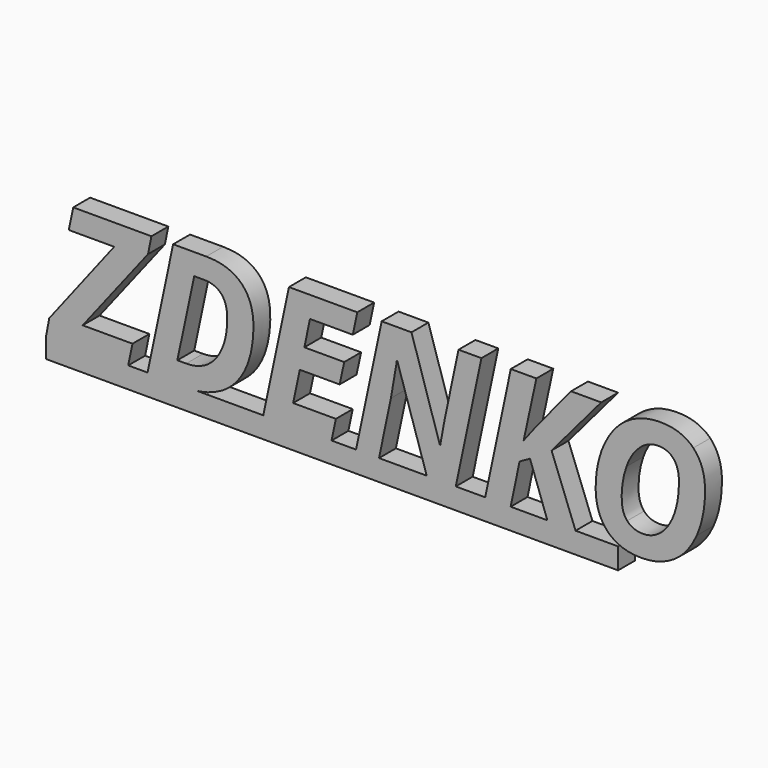
from build123d import *

# Parameters (mm, degrees)
F1_DEPTH = 3


with BuildPart() as f1:
    # F0 (on Front) → F1 (new body)
    with BuildSketch(Plane.XZ):
        Polygon((-45.4540743535, 0), (-45.4559984316, 0), (-45.4559984316, -0.0101539581), align=None)
        Polygon((-45.0253434094, 2.2625464951), (-45.4540743535, 0), (-33.8038387864, 0), (-33.1987708043, 2.9159902754), (-40.2764787269, 2.9159902754), (-30.9914984999, 14.8375401741), (-30.5052147564, 17.2347670658), (-41.6175581133, 17.2347670658), (-42.2482073431, 14.1954936691), (-35.8011486502, 14.1954936691), align=None)
        Polygon((-33.8038387864, 0), (-45.4540743535, 0), (-45.4559984316, -0.0101539581), (-45.4559984316, -0.1232831214), (-33.8294200341, -0.1232831214), align=None)
        Polygon((-45.4559984316, -0.1232831214), (-45.4559984316, -0.0101539581), (-45.4774353271, -0.1232831214), align=None)
        with BuildLine():
            Line((-31.0604376644, 0), (-33.8038387864, 0))
            Line((-33.8038387864, 0), (-33.8294200341, -0.1232831214))
            Line((-33.8294200341, -0.1232831214), (-45.4559984316, -0.1232831214))
            Line((-45.4559984316, -0.1232831214), (-45.4559984316, -3))
            Line((-45.4559984316, -3), (35.8146238138, -3))
            Line((35.8146238138, -3), (35.8146238138, 0))
            Line((35.8146238138, 0), (29.769646119, 0))
            Line((29.769646119, 0), (29.8167639856, -0.1232831214))
            Line((29.8167639856, -0.1232831214), (25.8011240102, -0.1232831214))
            Line((25.8011240102, -0.1232831214), (25.7572085631, 0))
            Line((25.7572085631, 0), (20.5460862143, 0))
            Line((20.5460862143, 0), (20.5203864833, -0.1232831214))
            Line((20.5203864833, -0.1232831214), (16.8998520494, -0.1232831214))
            Line((16.8998520494, -0.1232831214), (16.9258901786, 0))
            Line((16.9258901786, 0), (12.7469162406, 0))
            Line((12.7469162406, 0), (12.7208511289, -0.1232831214))
            Line((12.7208511289, -0.1232831214), (8.6596220525, -0.1232831214))
            Line((8.6596220525, -0.1232831214), (8.6199545667, 0))
            Line((8.6199545667, 0), (1.8358351015, 0))
            Line((1.8358351015, 0), (1.8098596346, -0.1232831214))
            Line((1.8098596346, -0.1232831214), (-1.4535601752, -0.1232831214))
            Line((-1.4535601752, -0.1232831214), (-1.4275220461, 0))
            Line((-1.4275220461, 0), (-4.9074846551, 0))
            Line((-4.9074846551, 0), (-4.9335282145, -0.1232831214))
            Line((-4.9335282145, -0.1232831214), (-14.6326094419, -0.1232831214))
            Line((-14.6326094419, -0.1232831214), (-14.6065713127, 0))
            Line((-14.6065713127, 0), (-23.9531483885, 0))
            add(Edge.make_bspline(
                [(-23.9531483885, 0), (-24.8052711696, -0.1232831214), (-25.7335555235, -0.1232831214)],
                knots=[0.6899190889, 0.6899190889, 0.6899190889, 1, 1, 1], degree=2))
            Line((-25.7335555235, -0.1232831214), (-31.0864757935, -0.1232831214))
            Line((-31.0864757935, -0.1232831214), (-31.0604376644, 0))
        make_face()
        with BuildLine():
            Line((-27.4203522587, 17.2347670658), (-31.0604376644, 0))
            Line((-31.0604376644, 0), (-23.9531483885, 0))
            add(Edge.make_bspline(
                [(-20.5382975609, 1.1589103429), (-22.0572052593, 0.2743005962), (-23.9531483885, 0)],
                knots=[0, 0, 0, 0.6899190889, 0.6899190889, 0.6899190889], degree=2))
            add(Edge.make_bspline(
                [(-17.1742018199, 4.8934175292), (-18.3367238942, 2.4411038072), (-20.5382975609, 1.1589103429)],
                knots=[0, 0, 0, 1, 1, 1], degree=2))
            add(Edge.make_bspline(
                [(-16.0116797456, 10.6699365289), (-16.0116797456, 7.3457312512), (-17.1742018199, 4.8934175292)],
                knots=[0, 0, 0, 1, 1, 1], degree=2))
            add(Edge.make_bspline(
                [(-17.7611614946, 15.5365730554), (-16.0116797456, 13.838379045), (-16.0116797456, 10.6699365289)],
                knots=[0, 0, 0, 1, 1, 1], degree=2))
            add(Edge.make_bspline(
                [(-22.7170766772, 17.2347670658), (-19.5106432436, 17.2347670658), (-17.7611614946, 15.5365730554)],
                knots=[0, 0, 0, 1, 1, 1], degree=2))
            Line((-22.7170766772, 17.2347670658), (-27.4203522587, 17.2347670658))
        make_face()
        with BuildLine():
            add(Edge.make_bspline(
                [(-25.5663954867, 2.9159902754), (-23.8112151, 2.9159902754), (-22.5043275394, 3.8182745651)],
                knots=[0, 0, 0, 1, 1, 1], degree=2))
            Line((-25.5663954867, 2.9159902754), (-26.8238948546, 2.9159902754))
            Line((-26.8238948546, 2.9159902754), (-24.4266679629, 14.2182882196))
            Line((-24.4266679629, 14.2182882196), (-23.0627940261, 14.2182882196))
            add(Edge.make_bspline(
                [(-20.5876857536, 13.2628166455), (-21.4481800341, 14.2182882196), (-23.0627940261, 14.2182882196)],
                knots=[0, 0, 0, 1, 1, 1], degree=2))
            add(Edge.make_bspline(
                [(-19.7271914732, 10.4799819416), (-19.7271914732, 12.3073450714), (-20.5876857536, 13.2628166455)],
                knots=[0, 0, 0, 1, 1, 1], degree=2))
            add(Edge.make_bspline(
                [(-20.462315726, 6.4719401496), (-19.7271914732, 8.2233214445), (-19.7271914732, 10.4799819416)],
                knots=[0, 0, 0, 1, 1, 1], degree=2))
            add(Edge.make_bspline(
                [(-22.5043275394, 3.8182745651), (-21.1974399788, 4.7205588547), (-20.462315726, 6.4719401496)],
                knots=[0, 0, 0, 1, 1, 1], degree=2))
        make_face(mode=Mode.SUBTRACT)
        with BuildLine():
            Line((-23.9531483885, 0), (-31.0604376644, 0))
            Line((-31.0604376644, 0), (-31.0864757935, -0.1232831214))
            Line((-31.0864757935, -0.1232831214), (-25.7335555235, -0.1232831214))
            add(Edge.make_bspline(
                [(-23.9531483885, 0), (-24.8052711696, -0.1232831214), (-25.7335555235, -0.1232831214)],
                knots=[0.6899190889, 0.6899190889, 0.6899190889, 1, 1, 1], degree=2))
        make_face()
        Polygon((-10.966485907, 17.2347670658), (-14.6065713127, 0), (-4.9074846551, 0), (-4.2914817094, 2.9159902754), (-10.3700285029, 2.9159902754), (-9.4202555664, 7.3913203521), (-3.759608865, 7.3913203521), (-3.1061650847, 10.4077991984), (-8.7706108779, 10.4077991984), (-7.9728016112, 14.2182882196), (-1.8942548177, 14.2182882196), (-1.2522083127, 17.2347670658), align=None)
        Polygon((-4.9074846551, 0), (-14.6065713127, 0), (-14.6326094419, -0.1232831214), (-4.9335282145, -0.1232831214), align=None)
        Polygon((29.8167639856, -0.1232831214), (29.769646119, 0), (25.7572085631, 0), (25.8011240102, -0.1232831214), align=None)
        Polygon((25.7572085631, 0), (29.769646119, 0), (26.3595904968, 8.9223543257), (33.414503869, 17.2347670658), (29.1253292878, 17.2347670658), (24.2700900365, 11.3347775844), (22.3971378058, 8.8995597752), (24.2017063851, 17.2347670658), (20.5659755843, 17.2347670658), (16.9258901786, 0), (20.5460862143, 0), (21.8120776769, 6.0730355163), (23.2975225496, 6.9050366086), align=None)
        with BuildLine():
            Line((2.2125633596, 17.2347670658), (-1.4275220461, 0))
            Line((-1.4275220461, 0), (1.8358351015, 0))
            Line((1.8358351015, 0), (3.5308481955, 8.0447641324))
            add(Edge.make_bspline(
                [(4.3134610951, 12.626468778), (3.9335519205, 10.0620818495), (3.5308481955, 8.0447641324)],
                knots=[0, 0, 0, 1, 1, 1], degree=2))
            Line((4.3134610951, 12.626468778), (4.3628492878, 13.0063779526))
            Line((4.3628492878, 13.0063779526), (4.435032031, 13.0063779526))
            Line((4.435032031, 13.0063779526), (8.6199545667, 0))
            Line((8.6199545667, 0), (12.7469162406, 0))
            Line((12.7469162406, 0), (16.3907737555, 17.2347670658))
            Line((16.3907737555, 17.2347670658), (13.1349521292, 17.2347670658))
            add(Edge.make_bspline(
                [(10.9979630221, 7.0247079986), (11.3189862746, 8.6982079127), (13.1349521292, 17.2347670658)],
                knots=[0, 0, 0, 1, 1, 1], degree=2))
            add(Edge.make_bspline(
                [(10.536373375, 4.447024249), (10.6769397696, 5.3512080845), (10.9979630221, 7.0247079986)],
                knots=[0, 0, 0, 1, 1, 1], degree=2))
            Line((10.536373375, 4.447024249), (10.4869851823, 4.447024249))
            Line((10.4869851823, 4.447024249), (6.4523497481, 17.2347670658))
            Line((6.4523497481, 17.2347670658), (2.2125633596, 17.2347670658))
        make_face()
        Polygon((1.8358351015, 0), (-1.4275220461, 0), (-1.4535601752, -0.1232831214), (1.8098596346, -0.1232831214), align=None)
        Polygon((20.5203864833, -0.1232831214), (20.5460862143, 0), (16.9258901786, 0), (16.8998520494, -0.1232831214), align=None)
        Polygon((12.7469162406, 0), (8.6199545667, 0), (8.6596220525, -0.1232831214), (12.7208511289, -0.1232831214), align=None)
        with BuildLine():
            add(Edge.make_bspline(
                [(48.1701762102, 11.011854786), (48.1701762102, 7.6534576826), (46.9943573149, 4.999792098)],
                knots=[0, 0, 0, 1, 1, 1], degree=2))
            add(Edge.make_bspline(
                [(46.5080735714, 15.7987103859), (48.1701762102, 14.0891191002), (48.1701762102, 11.011854786)],
                knots=[0, 0, 0, 1, 1, 1], degree=2))
            add(Edge.make_bspline(
                [(41.818094811, 17.5083016715), (44.8459709325, 17.5083016715), (46.5080735714, 15.7987103859)],
                knots=[0, 0, 0, 1, 1, 1], degree=2))
            add(Edge.make_bspline(
                [(37.0464355781, 16.0950395421), (39.1131414879, 17.5083016715), (41.818094811, 17.5083016715)],
                knots=[0, 0, 0, 1, 1, 1], degree=2))
            add(Edge.make_bspline(
                [(33.803910773, 12.0395091033), (34.9797296683, 14.6817774126), (37.0464355781, 16.0950395421)],
                knots=[0, 0, 0, 1, 1, 1], degree=2))
            add(Edge.make_bspline(
                [(32.6280918776, 6.2515928283), (32.6280918776, 9.397240794), (33.803910773, 12.0395091033)],
                knots=[0, 0, 0, 1, 1, 1], degree=2))
            add(Edge.make_bspline(
                [(34.3319845257, 1.3887553935), (32.6280918776, 3.1401366884), (32.6280918776, 6.2515928283)],
                knots=[0, 0, 0, 1, 1, 1], degree=2))
            add(Edge.make_bspline(
                [(39.0751505705, -0.3626259014), (36.0358771737, -0.3626259014), (34.3319845257, 1.3887553935)],
                knots=[0, 0, 0, 1, 1, 1], degree=2))
            add(Edge.make_bspline(
                [(43.7765266061, 0.9917503061), (41.7345147926, -0.3626259014), (39.0751505705, -0.3626259014)],
                knots=[0, 0, 0, 1, 1, 1], degree=2))
            add(Edge.make_bspline(
                [(46.9943573149, 4.999792098), (45.8185384195, 2.3461265135), (43.7765266061, 0.9917503061)],
                knots=[0, 0, 0, 1, 1, 1], degree=2))
        make_face()
        with BuildLine():
            add(Edge.make_bspline(
                [(41.5217656548, 14.4424346326), (40.0857089749, 14.4424346326), (38.887095529, 13.3577939391)],
                knots=[0, 0, 0, 1, 1, 1], degree=2))
            add(Edge.make_bspline(
                [(43.6948461335, 13.5230544301), (42.9236305091, 14.4424346326), (41.5217656548, 14.4424346326)],
                knots=[0, 0, 0, 1, 1, 1], degree=2))
            add(Edge.make_bspline(
                [(44.4660617579, 10.9168774923), (44.4660617579, 12.6036742275), (43.6948461335, 13.5230544301)],
                knots=[0, 0, 0, 1, 1, 1], degree=2))
            add(Edge.make_bspline(
                [(43.8012207024, 6.6808901956), (44.4660617579, 8.5690387933), (44.4660617579, 10.9168774923)],
                knots=[0, 0, 0, 1, 1, 1], degree=2))
            add(Edge.make_bspline(
                [(41.9548621139, 3.759388643), (43.1363796469, 4.7927415979), (43.8012207024, 6.6808901956)],
                knots=[0, 0, 0, 1, 1, 1], degree=2))
            add(Edge.make_bspline(
                [(39.3372879009, 2.7260356881), (40.7733445809, 2.7260356881), (41.9548621139, 3.759388643)],
                knots=[0, 0, 0, 1, 1, 1], degree=2))
            add(Edge.make_bspline(
                [(37.1110201378, 3.6169227025), (37.901231221, 2.7260356881), (39.3372879009, 2.7260356881)],
                knots=[0, 0, 0, 1, 1, 1], degree=2))
            add(Edge.make_bspline(
                [(36.3208090547, 6.2515928283), (36.3208090547, 4.5078097169), (37.1110201378, 3.6169227025)],
                knots=[0, 0, 0, 1, 1, 1], degree=2))
            add(Edge.make_bspline(
                [(37.0046455689, 10.3736073727), (36.3208090547, 8.4740614997), (36.3208090547, 6.2515928283)],
                knots=[0, 0, 0, 1, 1, 1], degree=2))
            add(Edge.make_bspline(
                [(38.887095529, 13.3577939391), (37.6884820832, 12.2731532456), (37.0046455689, 10.3736073727)],
                knots=[0, 0, 0, 1, 1, 1], degree=2))
        make_face(mode=Mode.SUBTRACT)
    extrude(amount=F1_DEPTH)


solid = f1.part
